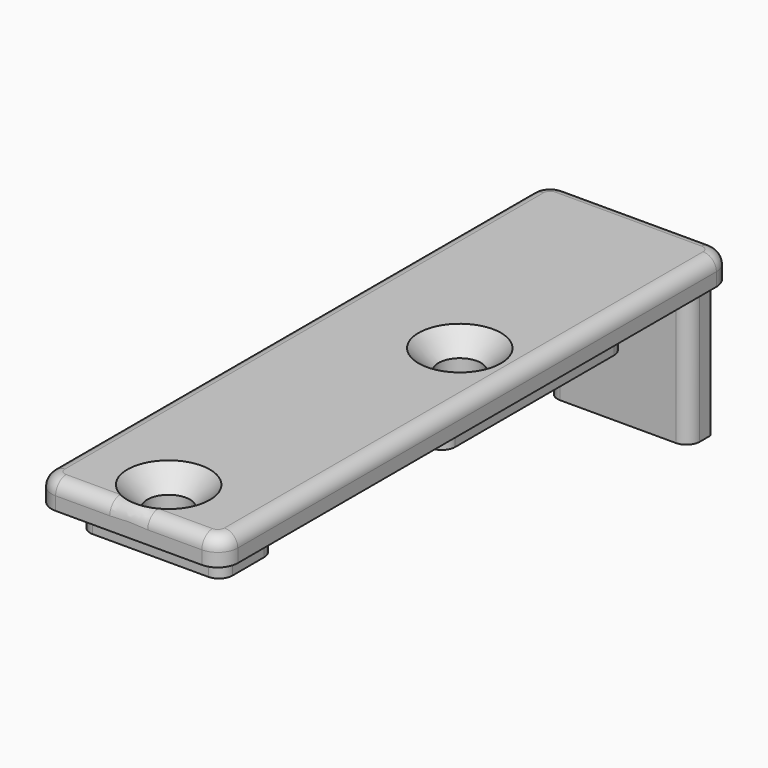
from build123d import *

# Parameters (mm, degrees)
SKETCH041_W     = 14
SKETCH041_H     = 48
PAD017_DEPTH    = 2
SKETCH043_W     = 10.7
SKETCH043_H     = 16.95
SKETCH043_H_2   = 5
PAD018_DEPTH    = 2
SKETCH044_W     = 10.7
SKETCH044_H     = 2
PAD019_DEPTH    = 11
SKETCH045_R     = 1.6
POCKET019_DEPTH = 5
CHAMFER002_SIZE = 1.5
FILLET006_R     = 1.5
FILLET007_R     = 1
FILLET008_R     = 1


with BuildPart() as part:
    # Sketch041 → Pad017 (new body)
    with BuildSketch(Plane.XY):
        with Locations((-17, -34)):
            Rectangle(SKETCH041_W, SKETCH041_H)
    extrude(amount=PAD017_DEPTH)

    # Sketch043 (on Face5 of Pad017) → Pad018 (join)
    with BuildSketch(Plane(origin=(0, 0, 0), x_dir=(1, 0, 0), z_dir=(0, 0, -1))):
        with Locations((-17, 26.525)):
            Rectangle(SKETCH043_W, SKETCH043_H)
        with Locations((-17, 53.45)):
            Rectangle(SKETCH043_W, SKETCH043_H_2)
    extrude(amount=PAD018_DEPTH)

    # Sketch044 (on Face4 of Pad018) → Pad019 (join)
    with BuildSketch(Plane(origin=(0, 0, 0), x_dir=(1, 0, 0), z_dir=(0, 0, -1))):
        with Locations((-17, 11)):
            Rectangle(SKETCH044_W, SKETCH044_H)
    extrude(amount=PAD019_DEPTH)

    # Sketch045 (on Face5 of Pad019) → Pocket019 (cut)
    with BuildSketch(Plane.XY.offset(2)):
        with Locations((-14.5, -30)):
            Circle(SKETCH045_R)
        with Locations((-17, -54.25)):
            Circle(SKETCH045_R)
    extrude(amount=-POCKET019_DEPTH, mode=Mode.SUBTRACT)

    # Chamfer002
    chamfer002_edges = [part.edges().sort_by_distance(p)[0] for p in [
        (-16.1, -30, 2),
        (-18.6, -54.25, 2),
    ]]
    chamfer(chamfer002_edges, length=CHAMFER002_SIZE)

    # Fillet006
    fillet006_edges = [part.edges().sort_by_distance(p)[0] for p in [
        (-10, -58, 1),
        (-24, -58, 1),
        (-24, -10, 1),
        (-10, -10, 1),
    ]]
    fillet(fillet006_edges, radius=FILLET006_R)

    # Fillet007
    fillet007_edges = [part.edges().sort_by_distance(p)[0] for p in [
        (-24, -34, 2),
    ]]
    fillet(fillet007_edges, radius=FILLET007_R)

    # Fillet008
    fillet008_edges = [part.edges().sort_by_distance(p)[0] for p in [
        (-22.35, -55.95, -1),
        (-11.65, -55.95, -1),
        (-22.35, -35, -1),
        (-11.65, -35, -1),
        (-11.65, -12, -5.5),
        (-22.35, -12, -5.5),
        (-11.65, -18.05, -1),
        (-22.35, -18.05, -1),
        (-22.35, -50.95, -1),
        (-11.65, -50.95, -1),
    ]]
    fillet(fillet008_edges, radius=FILLET008_R)


solid = part.part
